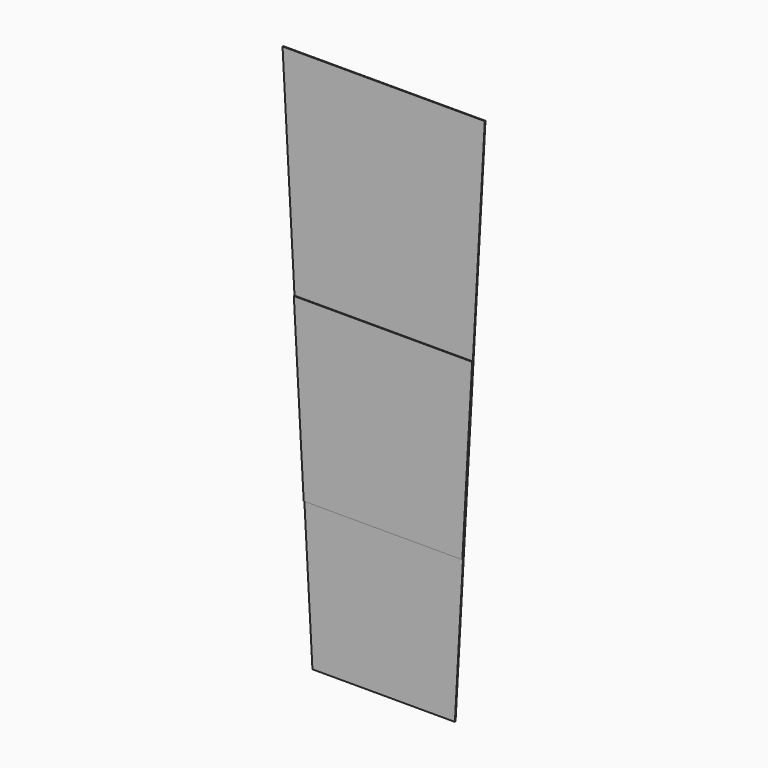
from build123d import *

# Parameters (mm, degrees)
F1_DEPTH = 0.2032
F2_DEPTH = 0.1016


with BuildPart() as f1:
    # F0 (on Front) → F1 (new body)
    with BuildSketch(Plane.XZ):
        Polygon((0, 18.0086), (9.801196, 18.0086), (11.01852, 39.9288), (0, 39.9288), (-11.01852, 39.9288), (-9.801196, 18.0086), align=None)
    extrude(amount=F1_DEPTH)

    # F0 (on Front) → F2 (join)
    with BuildSketch(Plane.XZ):
        Polygon((0, 39.9288), (11.01852, 39.9288), (12.4968, 66.548), (0, 66.548), (-12.4968, 66.548), (-11.01852, 39.9288), align=None)
        Polygon((-8.8011, 0), (0, 0), (8.8011, 0), (9.801196, 18.0086), (0, 18.0086), (-9.801196, 18.0086), align=None)
    extrude(amount=F2_DEPTH)


solid = f1.part
